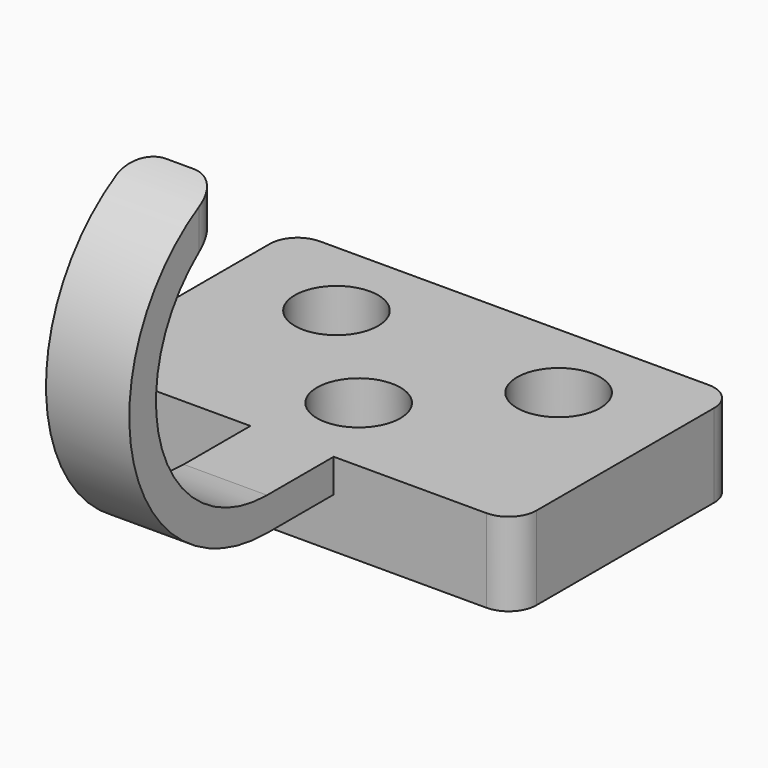
from build123d import *

# Parameters (mm, degrees)
F0_W     = 50.8
F0_H     = 31.75
F0_R     = 9.525
F1_DEPTH = 19.05
F2_DEPTH = 7.62
F3_DEPTH = 19.051
F4_DEPTH = 12.7
F5_R     = 6.35
F7_DEPTH = 19.05
F8_R     = 6.35
F9_DEPTH = 25.4


with BuildPart() as f1:
    # F0 (on Top) → F1 (new body)
    with BuildSketch(Plane.XY):
        with Locations((-25.4, 15.875)):
            Rectangle(F0_W, F0_H)
        with Locations((-25.4, 12.7)):
            Circle(F0_R, mode=Mode.SUBTRACT)
        with Locations((25.4, 15.875)):
            Rectangle(F0_W, F0_H)
        with Locations((25.4, 12.7)):
            Circle(F0_R, mode=Mode.SUBTRACT)
        with BuildLine():
            Line((50.8, 0), (0, 0))
            Line((0, 0), (0, -3.175))
            ThreePointArc((0, -3.175), (6.7351920908, -5.9648079092), (9.525, -12.7))
            ThreePointArc((9.525, -12.7), (6.7351920908, -19.4351920908), (0, -22.225))
            Line((0, -22.225), (0, -31.75))
            Line((0, -31.75), (9.525, -31.75))
            Line((9.525, -31.75), (50.8, -31.75))
            Line((50.8, -31.75), (50.8, 0))
        make_face()
        with BuildLine():
            Line((0, 0), (-50.8, 0))
            Line((-50.8, 0), (-50.8, -31.75))
            Line((-50.8, -31.75), (-9.525, -31.75))
            Line((-9.525, -31.75), (0, -31.75))
            Line((0, -31.75), (0, -22.225))
            ThreePointArc((0, -22.225), (-9.525, -12.7), (0, -3.175))
            Line((0, -3.175), (0, 0))
        make_face()
        with Locations((-25.4, 12.7)):
            Circle(F0_R)
        with Locations((25.4, 12.7)):
            Circle(F0_R)
        with BuildLine():
            Line((0, -22.225), (0, -3.175))
            ThreePointArc((0, -3.175), (-9.525, -12.7), (0, -22.225))
        make_face()
        with BuildLine():
            ThreePointArc((9.525, -12.7), (6.7351920908, -5.9648079092), (0, -3.175))
            Line((0, -3.175), (0, -22.225))
            ThreePointArc((0, -22.225), (6.7351920908, -19.4351920908), (9.525, -12.7))
        make_face()
    extrude(amount=-F1_DEPTH)

    # F0 (on Top) → F2 (join)
    with BuildSketch(Plane.XY):
        Polygon((0, -31.75), (-9.525, -31.75), (-9.525, -50.8), (9.525, -50.8), (9.525, -31.75), align=None)
    extrude(amount=-F2_DEPTH)

    # F0 (on Top) → F3 (cut, through all)
    with BuildSketch(Plane.XY):
        with Locations((-25.4, 12.7)):
            Circle(F0_R)
    extrude(amount=-F3_DEPTH, mode=Mode.SUBTRACT)

    # F0 (on Top) → F4 (cut)
    with BuildSketch(Plane.XY):
        with BuildLine():
            Line((0, -22.225), (0, -3.175))
            ThreePointArc((0, -3.175), (-9.525, -12.7), (0, -22.225))
        make_face()
        with BuildLine():
            ThreePointArc((9.525, -12.7), (6.7351920908, -5.9648079092), (0, -3.175))
            Line((0, -3.175), (0, -22.225))
            ThreePointArc((0, -22.225), (6.7351920908, -19.4351920908), (9.525, -12.7))
        make_face()
    extrude(amount=-F4_DEPTH, mode=Mode.SUBTRACT)

    # F5
    f5_edges = [f1.edges().sort_by_distance(p)[0] for p in [
        (-50.8, 31.75, -9.525),
        (-50.8, -31.75, -9.525),
        (50.8, 31.75, -9.525),
        (50.8, -31.75, -9.525),
    ]]
    fillet(f5_edges, radius=F5_R)

    # F6 (on face) → F7 (join)
    with BuildSketch(Plane.YZ.offset(9.525)):
        with BuildLine():
            Line((-50.8, -7.62), (-50.8, 0))
            ThreePointArc((-50.8, 0), (-81.8428763819, 25.0864929701), (-63.8302, 60.7030030905))
            Line((-63.8302, 60.7030030905), (-63.8302, 68.9011882443))
            ThreePointArc((-63.8302, 68.9011882443), (-89.6113332751, 25.1411188986), (-50.8, -7.62))
        make_face()
    extrude(amount=-F7_DEPTH)

    # F8
    f8_edges = [f1.edges().sort_by_distance(p)[0] for p in [
        (9.525, -63.8302, 64.802096),
        (-9.525, -63.8302, 64.802096),
    ]]
    fillet(f8_edges, radius=F8_R)

    # F0 (on Top) → F9 (cut)
    with BuildSketch(Plane.XY):
        with Locations((25.4, 12.7)):
            Circle(F0_R)
    extrude(amount=-F9_DEPTH, mode=Mode.SUBTRACT)


solid = f1.part
